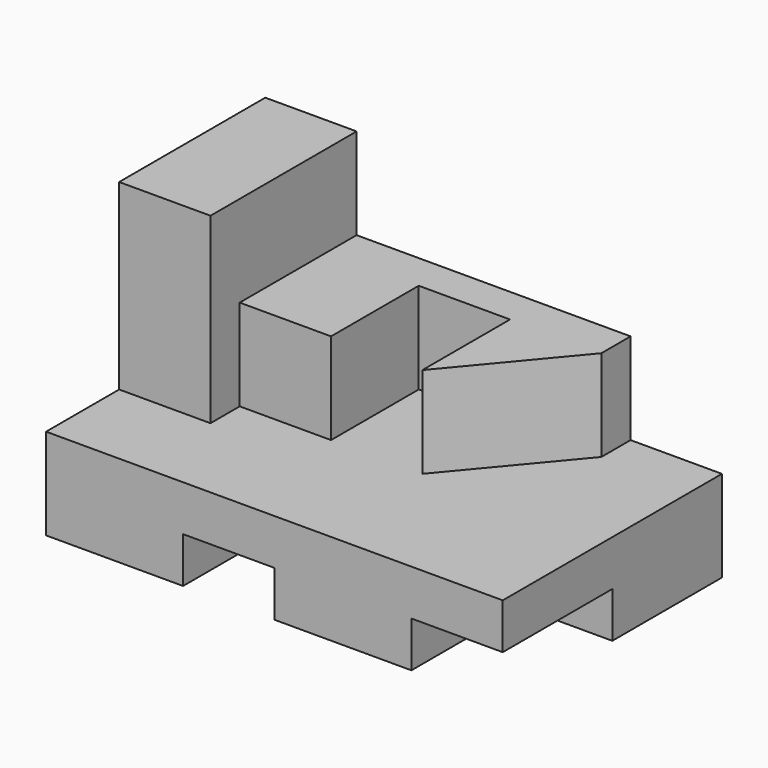
from build123d import *

# Parameters (mm, degrees)
F1_DEPTH = 190.5
F2_DEPTH = 127
F0_W     = 63.5
F0_H     = 63.5
F3_DEPTH = 101.6
F4_DEPTH = 25.4
F0_H_2   = 31.75
F5_DEPTH = 95.25
F7_DEPTH = 63.5


with BuildPart() as f1:
    # F0 (on Front) → F1 (new body)
    with BuildSketch(Plane.XZ):
        Polygon((0, 63.5), (0, 0), (95.25, 0), (95.25, 31.75), (158.75, 31.75), (158.75, 0), (254, 0), (254, 31.75), (317.5, 31.75), (317.5, 63.5), (254, 63.5), (190.5, 63.5), (127, 63.5), (63.5, 63.5), align=None)
    extrude(amount=F1_DEPTH)

    # F0 (on Front) → F2 (join)
    with BuildSketch(Plane.XZ):
        Polygon((0, 190.5), (0, 63.5), (63.5, 63.5), (63.5, 127), (63.5, 190.5), align=None)
    extrude(amount=F2_DEPTH)

    # F0 (on Front) → F3 (join)
    with BuildSketch(Plane.XZ):
        with Locations((95.25, 95.25)):
            Rectangle(F0_W, F0_H)
        with Locations((222.25, 95.25)):
            Rectangle(F0_W, F0_H)
    extrude(amount=F3_DEPTH)

    # F0 (on Front) → F4 (join)
    with BuildSketch(Plane.XZ):
        with Locations((158.75, 95.25)):
            Rectangle(F0_W, F0_H)
    extrude(amount=F4_DEPTH)

    # F0 (on Front) → F5 (join)
    with BuildSketch(Plane.XZ):
        with Locations((285.75, 15.875)):
            Rectangle(F0_W, F0_H_2)
    extrude(amount=F5_DEPTH)

    # F6 (on face) → F7 (cut)
    with BuildSketch(Plane.XY.offset(127)):
        Polygon((254, -25.4), (190.5, -101.6), (254, -101.6), align=None)
    extrude(amount=-F7_DEPTH, mode=Mode.SUBTRACT)


solid = f1.part
